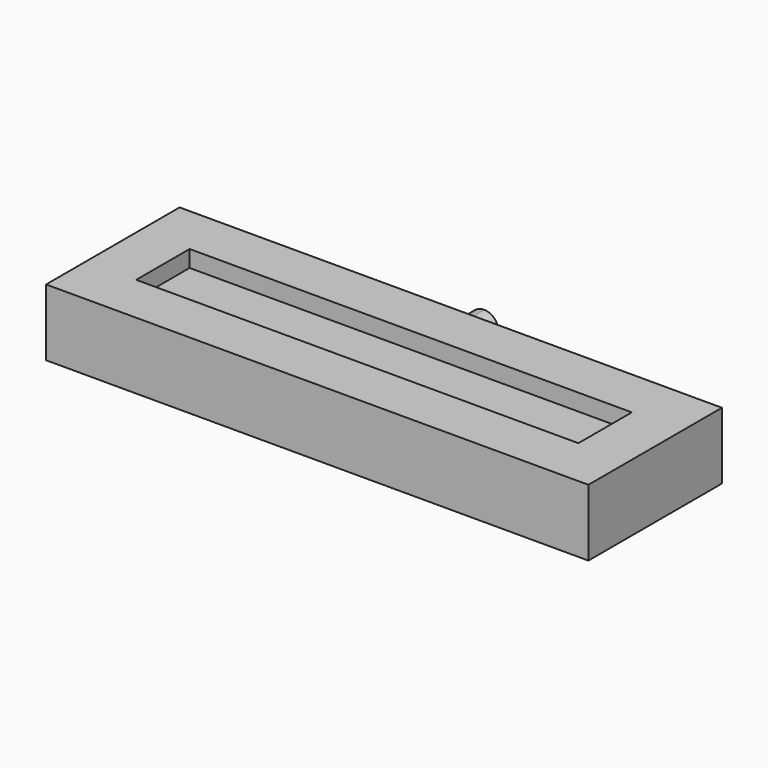
from build123d import *

# Parameters (mm, degrees)
F0_W     = 65
F0_H     = 20
F1_DEPTH = 8
F2_T     = -6
F4_DEPTH = 5


with BuildPart() as f1:
    # F0 (on Top) → F1 (new body)
    with BuildSketch(Plane.XY):
        Rectangle(F0_W, F0_H)
    extrude(amount=F1_DEPTH)

    # F2
    f2_openings = [f1.faces().sort_by_distance(p)[0] for p in [
        (0, 0, 8),
    ]]
    offset(amount=F2_T, openings=f2_openings)

    # F3 (on face) → F4 (join)
    with BuildSketch(Plane(origin=(0, 10, 0), x_dir=(-1, 0, 0), z_dir=(0, 1, 0))):
        with BuildLine():
            ThreePointArc((1.740197, 4), (1.230505, 5.230505), (0, 5.740197))
            Line((0, 5.740197), (0, 4))
            Line((0, 4), (0, 2.259803))
            ThreePointArc((0, 2.259803), (1.230505, 2.769495), (1.740197, 4))
        make_face()
        with BuildLine():
            Line((0, 4), (0, 5.740197))
            ThreePointArc((0, 5.740197), (-1.740197, 4), (0, 2.259803))
            Line((0, 2.259803), (0, 4))
        make_face()
    extrude(amount=F4_DEPTH)


solid = f1.part
